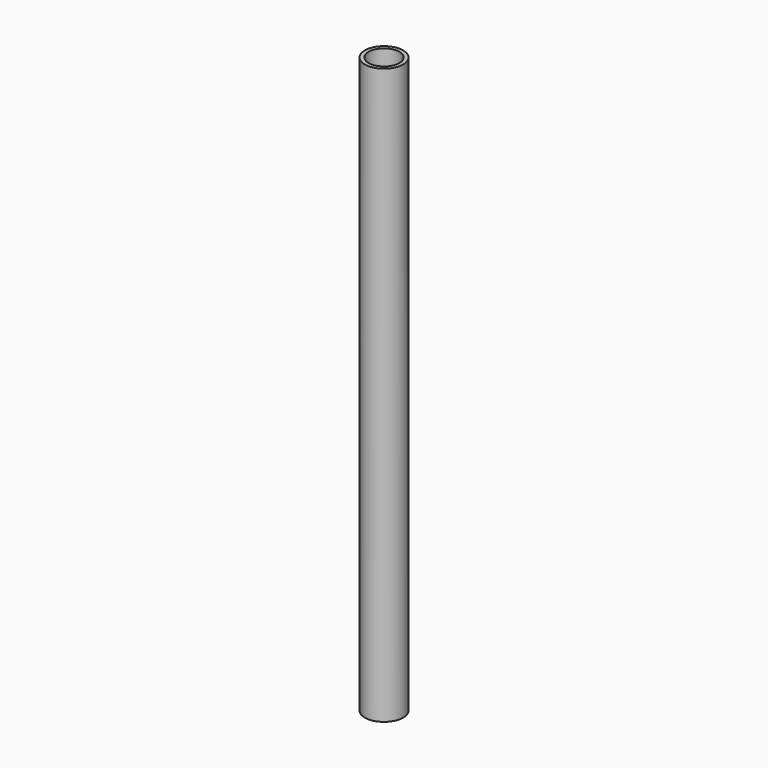
from build123d import *

# Parameters (mm, degrees)
F0_R     = 5
F1_DEPTH = 150
F3_D     = 8


with BuildPart() as f1:
    # F0 (on Top) → F1 (new body)
    with BuildSketch(Plane.XY):
        with Locations((0, -1.501968)):
            Circle(F0_R)
    extrude(amount=F1_DEPTH)

    # F3 (through all)
    with Locations(Plane.XY.offset(150)):
        with Locations((0, -1.501968)):
            Hole(F3_D / 2)


solid = f1.part
